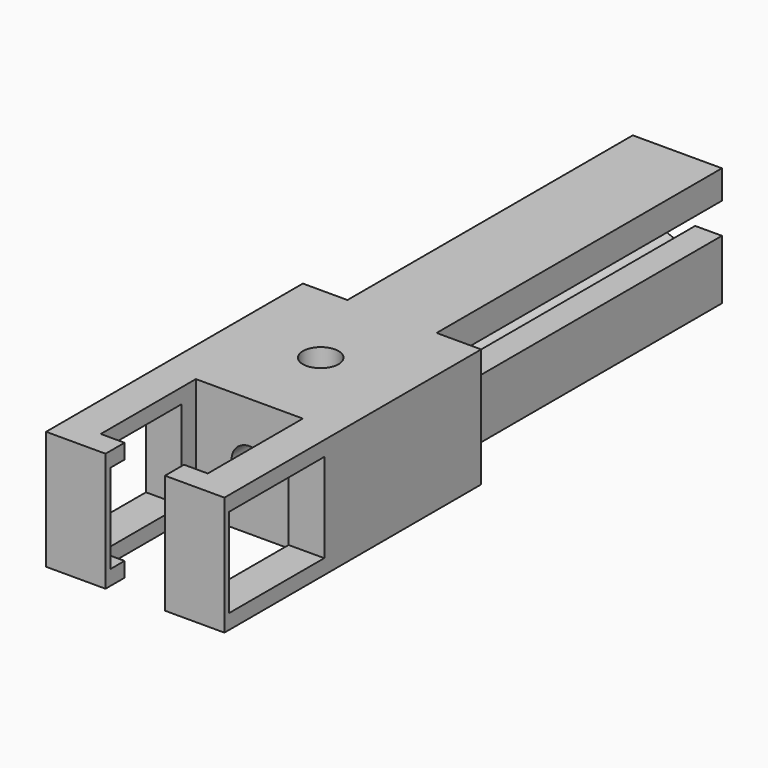
from build123d import *

# Parameters (mm, degrees)
F0_R     = 3.81
F0_W     = 7.62
F0_H     = 25.4
F0_H_2   = 5.08
F0_W_2   = 5.08
F1_DEPTH = 25.4
F2_R     = 3.81
F3_DEPTH = 114.301
F4_W     = 25.4
F4_H     = 19.05
F5_DEPTH = 38.101
F6_W     = 76.2
F6_H     = 6.593191
F7_DEPTH = 28.576


with BuildPart() as f1:
    # F0 (on Top) → F1 (new body)
    with BuildSketch(Plane.XY):
        Polygon((-9.525, 19.05), (-19.05, 19.05), (-19.05, -19.05), (-11.43, -19.05), (11.43, -19.05), (19.05, -19.05), (19.05, 19.05), (9.525, 19.05), (0, 19.05), align=None)
        Circle(F0_R, mode=Mode.SUBTRACT)
        Polygon((-9.525, 95.25), (-9.525, 19.05), (0, 19.05), (9.525, 19.05), (9.525, 95.25), align=None)
        with Locations((-15.24, -31.75)):
            Rectangle(F0_W, F0_H)
        with Locations((-15.24, -46.99)):
            Rectangle(F0_W, F0_H_2)
        with Locations((15.24, -31.75)):
            Rectangle(F0_W, F0_H)
        with Locations((-8.89, -46.99)):
            Rectangle(F0_W_2, F0_H_2)
        with Locations((15.24, -46.99)):
            Rectangle(F0_W, F0_H_2)
        with Locations((8.89, -46.99)):
            Rectangle(F0_W_2, F0_H_2)
    extrude(amount=F1_DEPTH)

    # F2 (on face) → F3 (cut, through all)
    with BuildSketch(Plane.XZ.offset(19.05)):
        with Locations((0, 12.7)):
            Circle(F2_R)
    extrude(amount=-F3_DEPTH, mode=Mode.SUBTRACT)

    # F4 (on face) → F5 (cut, through all)
    with BuildSketch(Plane.YZ.offset(19.05)):
        with Locations((-35.56, 12.7)):
            Rectangle(F4_W, F4_H)
    extrude(amount=-F5_DEPTH, mode=Mode.SUBTRACT)

    # F6 (on face) → F7 (cut, through all)
    with BuildSketch(Plane.YZ.offset(9.525)):
        with Locations((57.15, 15.996595)):
            Rectangle(F6_W, F6_H)
    extrude(amount=-F7_DEPTH, mode=Mode.SUBTRACT)


solid = f1.part
